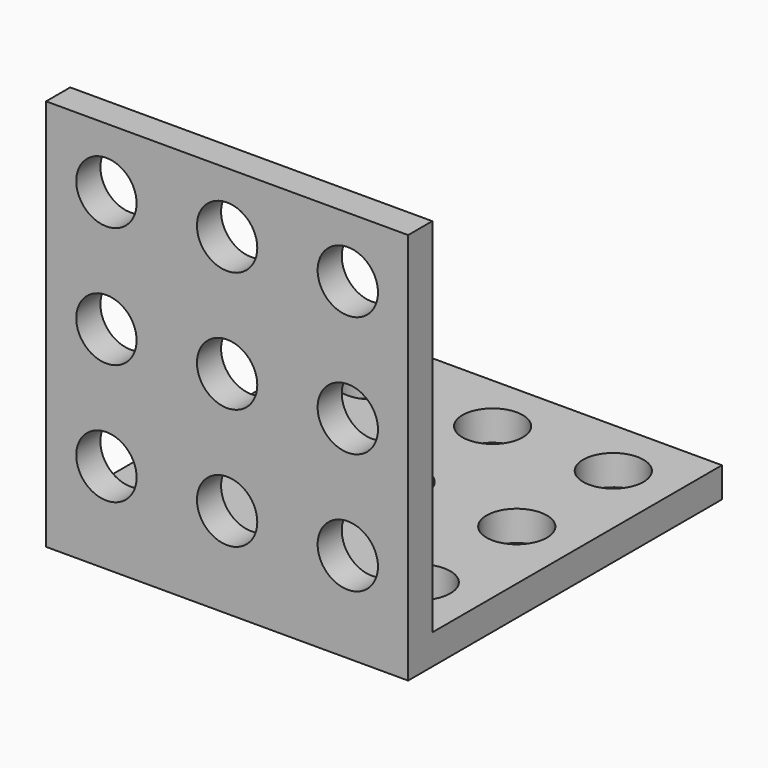
from build123d import *

# Parameters (mm, degrees)
F0_R     = 2
F1_DEPTH = 2
F2_W     = 24
F2_H     = 2
F3_DEPTH = 24
F4_R     = 2
F5_DEPTH = 25


with BuildPart() as f1:
    # F0 (on Top) → F1 (new body)
    with BuildSketch(Plane.XY):
        Polygon((12, 0), (0, 0), (-12, 0), (-12, -26), (12, -26), align=None)
        with Locations((-8, -20)):
            Circle(F0_R, mode=Mode.SUBTRACT)
        with Locations((0, -20)):
            Circle(F0_R, mode=Mode.SUBTRACT)
        with Locations((8, -20)):
            Circle(F0_R, mode=Mode.SUBTRACT)
        with Locations((-8, -12)):
            Circle(F0_R, mode=Mode.SUBTRACT)
        with Locations((-8, -4)):
            Circle(F0_R, mode=Mode.SUBTRACT)
        with Locations((0, -12)):
            Circle(F0_R, mode=Mode.SUBTRACT)
        with Locations((8, -12)):
            Circle(F0_R, mode=Mode.SUBTRACT)
        with Locations((0, -4)):
            Circle(F0_R, mode=Mode.SUBTRACT)
        with Locations((8, -4)):
            Circle(F0_R, mode=Mode.SUBTRACT)
    extrude(amount=F1_DEPTH)

    # F2 (on face) → F3 (join)
    with BuildSketch(Plane.XY.offset(2)):
        with Locations((0, -25)):
            Rectangle(F2_W, F2_H)
    extrude(amount=F3_DEPTH)

    # F4 (on face) → F5 (cut)
    with BuildSketch(Plane.XZ.offset(26)):
        with Locations((-8, 22)):
            Circle(F4_R)
        with Locations((-8, 14)):
            Circle(F4_R)
        with Locations((-8, 6)):
            Circle(F4_R)
        with Locations((0, 22)):
            Circle(F4_R)
        with Locations((0, 14)):
            Circle(F4_R)
        with Locations((0, 6)):
            Circle(F4_R)
        with Locations((8, 22)):
            Circle(F4_R)
        with Locations((8, 14)):
            Circle(F4_R)
        with Locations((8, 6)):
            Circle(F4_R)
    extrude(amount=-F5_DEPTH, mode=Mode.SUBTRACT)


solid = f1.part
